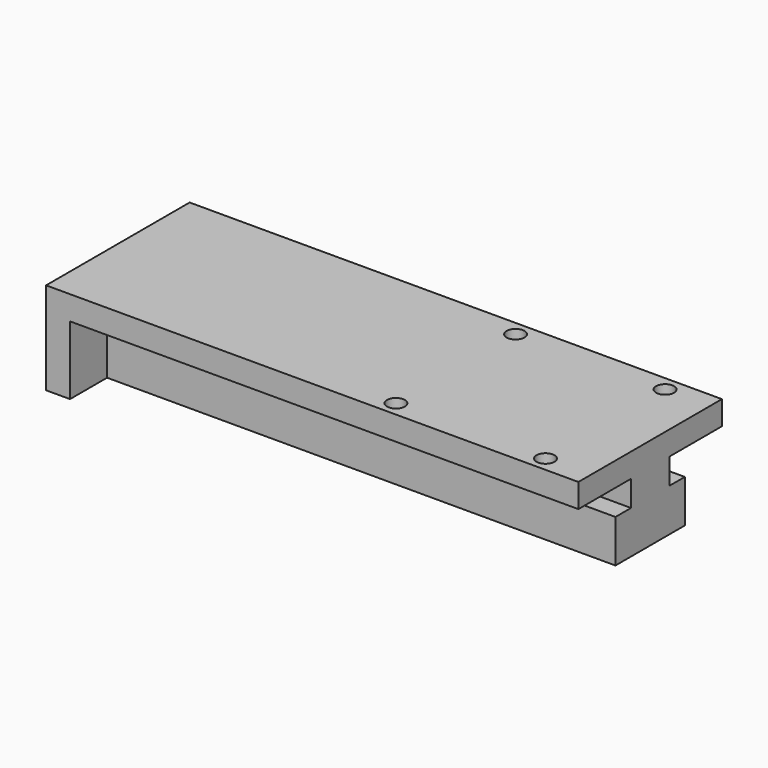
from build123d import *

# Parameters (mm, degrees)
PAD113_DEPTH    = 85
SKETCH229_R     = 1.5
POCKET082_DEPTH = 15.451
SKETCH230_W     = 30
SKETCH230_H     = 15.45
PAD114_DEPTH    = 4


with BuildPart() as part:
    # Sketch228 → Pad113 (new body)
    with BuildSketch(Plane.YZ):
        Polygon((-7.75, 11.45), (-7.75, 15.45), (22.25, 15.45), (22.25, 11.45), (11.25, 11.45), (11.25, 7.15), (14.5, 7.15), (14.5, 0), (0, 0), (0, 7.15), (3.25, 7.15), (3.25, 11.45), align=None)
    extrude(amount=PAD113_DEPTH)

    # Sketch229 (on Face2 of Pad113) → Pocket082 (cut, through all)
    with BuildSketch(Plane(origin=(0, 0, 15.45), x_dir=(0, -1, 0), z_dir=(0, 0, 1))):
        with Locations((-19.75, 77.5)):
            Circle(SKETCH229_R)
        with Locations((-19.75, 52.5)):
            Circle(SKETCH229_R)
        with Locations((5.25, 52.5)):
            Circle(SKETCH229_R)
        with Locations((5.25, 77.5)):
            Circle(SKETCH229_R)
    extrude(amount=-POCKET082_DEPTH, mode=Mode.SUBTRACT)

    # Sketch230 (on Face4 of Pocket082) → Pad114 (join)
    with BuildSketch(Plane(origin=(0, 0, 0), x_dir=(0, 1, 0), z_dir=(-1, 0, 0))):
        with Locations((7.25, -7.725)):
            Rectangle(SKETCH230_W, SKETCH230_H)
    extrude(amount=PAD114_DEPTH)


with BuildPart() as part_1:
    # Body136 placement: moved
    add(part.part.moved(Location((-115, 165.8, 7))))


solid = part_1.part
